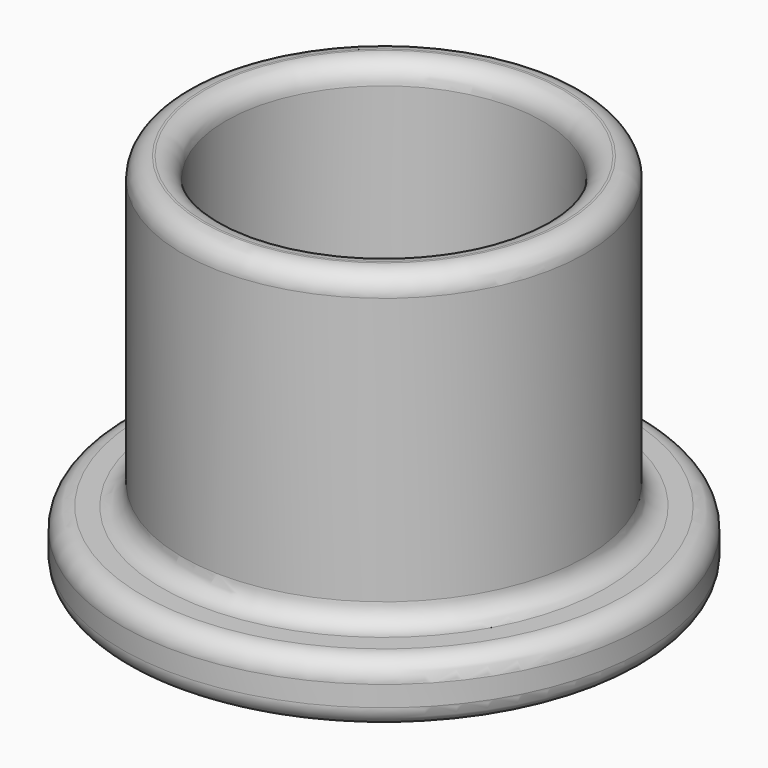
from build123d import *

# Parameters (mm, degrees)
F0_R     = 16.1925
F0_R_2   = 9.779
F1_DEPTH = 3.81
F2_R     = 12.446
F2_R_2   = 9.779
F3_DEPTH = 19.05
F4_R     = 1.27


with BuildPart() as f1:
    # F0 (on Top) → F1 (new body)
    with BuildSketch(Plane.XY):
        Circle(F0_R)
        Circle(F0_R_2, mode=Mode.SUBTRACT)
    extrude(amount=F1_DEPTH)

    # F2 (on face) → F3 (join)
    with BuildSketch(Plane.XY.offset(3.81)):
        Circle(F2_R)
        Circle(F2_R_2, mode=Mode.SUBTRACT)
    extrude(amount=F3_DEPTH)

    # F4
    f4_edges = [f1.edges().sort_by_distance(p)[0] for p in [
        (-12.446, 0, 22.86),
        (-16.1925, 0, 3.81),
        (-9.779, 0, 22.86),
        (-16.1925, 0, 0),
        (-9.779, 0, 0),
        (-12.446, 0, 3.81),
    ]]
    fillet(f4_edges, radius=F4_R)


solid = f1.part
